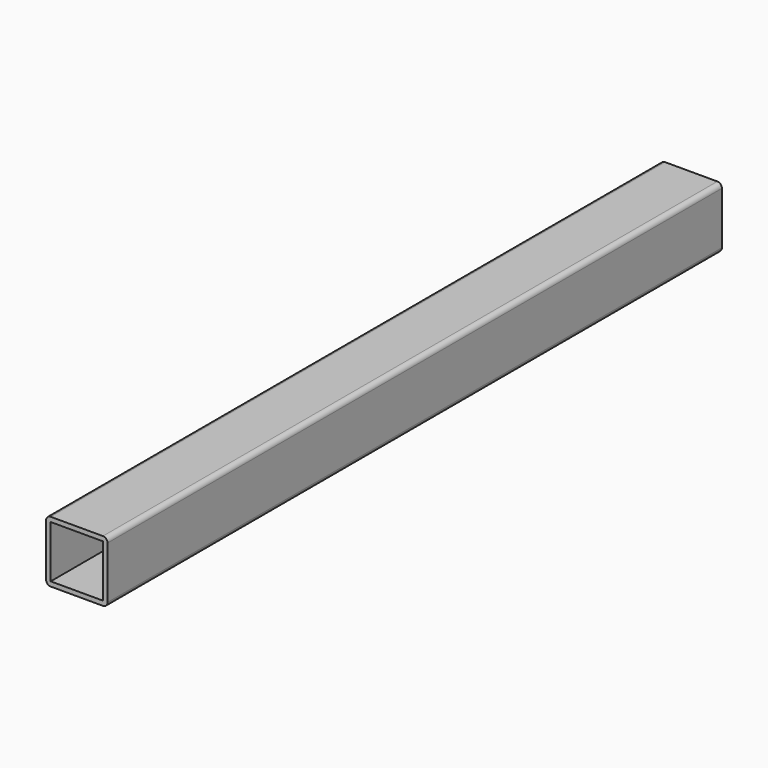
from build123d import *

# Parameters (mm, degrees)
F0_W     = 34
F0_H     = 34
F1_DEPTH = 500


with BuildPart() as f1:
    # F0 (on Front) → F1 (new body)
    with BuildSketch(Plane.XZ):
        with BuildLine():
            ThreePointArc((19.779984, 17.078975), (18.901304, 19.200296), (16.779984, 20.078975))
            Line((16.779984, 20.078975), (-17.220016, 20.078975))
            ThreePointArc((-17.220016, 20.078975), (-19.341336, 19.200296), (-20.220016, 17.078975))
            Line((-20.220016, 17.078975), (-20.220016, -16.921025))
            ThreePointArc((-20.220016, -16.921025), (-19.341336, -19.042345), (-17.220016, -19.921025))
            Line((-17.220016, -19.921025), (16.779984, -19.921025))
            ThreePointArc((16.779984, -19.921025), (18.901304, -19.042345), (19.779984, -16.921025))
            Line((19.779984, -16.921025), (19.779984, 17.078975))
        make_face()
        with Locations((-0.220016, 0.078975)):
            Rectangle(F0_W, F0_H, mode=Mode.SUBTRACT)
    extrude(amount=F1_DEPTH)


solid = f1.part
